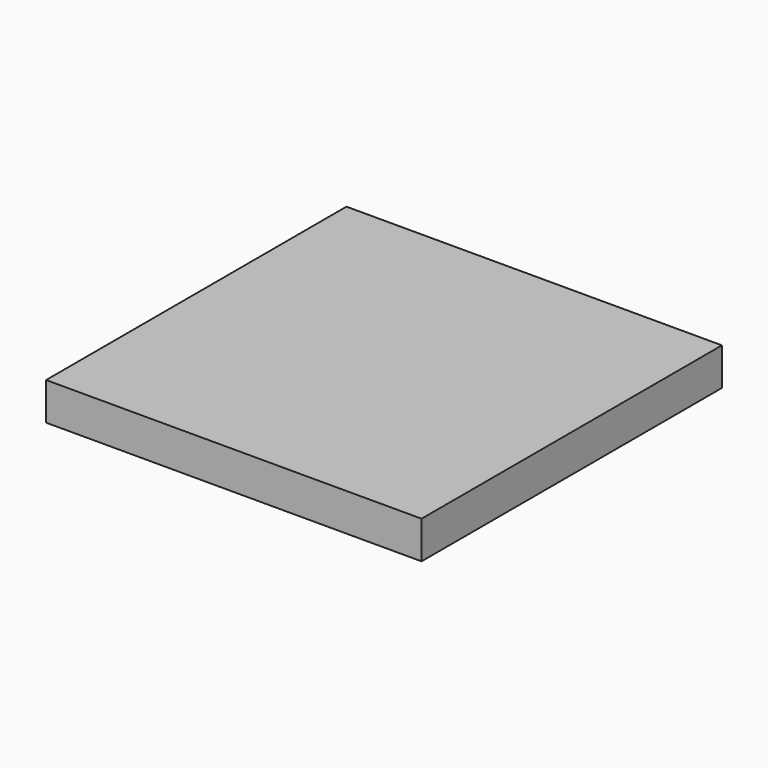
from build123d import *

# Parameters (mm, degrees)
F1_DEPTH = 15
F2_T     = -2.5


with BuildPart() as f1:
    # F0 (on Top) → F1 (new body)
    with BuildSketch(Plane.XY):
        Polygon((-75, -75), (0, -75), (75, -75), (75, 0), (75, 75), (0, 75), (-75, 75), (-75, 0), align=None)
    extrude(amount=F1_DEPTH)

    # F2
    f2_openings = [f1.faces().sort_by_distance(p)[0] for p in [
        (0, 0, 0),
    ]]
    offset(amount=F2_T, openings=f2_openings)


solid = f1.part
